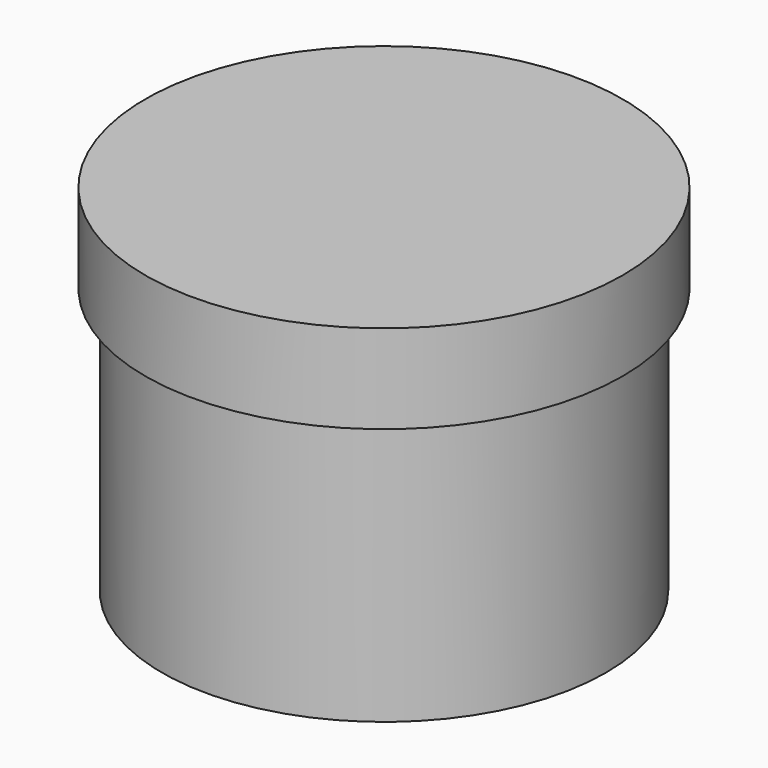
from build123d import *

# Parameters (mm, degrees)
F0_W = 63.5
F0_H = 76.2


with BuildPart() as f1:
    # F0 (on Front) → F1 (revolve)
    with BuildSketch(Plane.XZ):
        with Locations((31.75, -4.206056)):
            Rectangle(F0_W, F0_H)
    revolve(axis=Axis((0, 0, -4.206056), (0, 0, -1)))

    # F0 (on Front) → F2 (revolve)
    with BuildSketch(Plane.XZ):
        Polygon((0, 59.293944), (0, 33.893944), (63.5, 33.893944), (68.267785, 33.893944), (68.267785, 59.293944), align=None)
    revolve(axis=Axis((0, 0, 46.648586), (0, 0, 1)))


solid = f1.part
